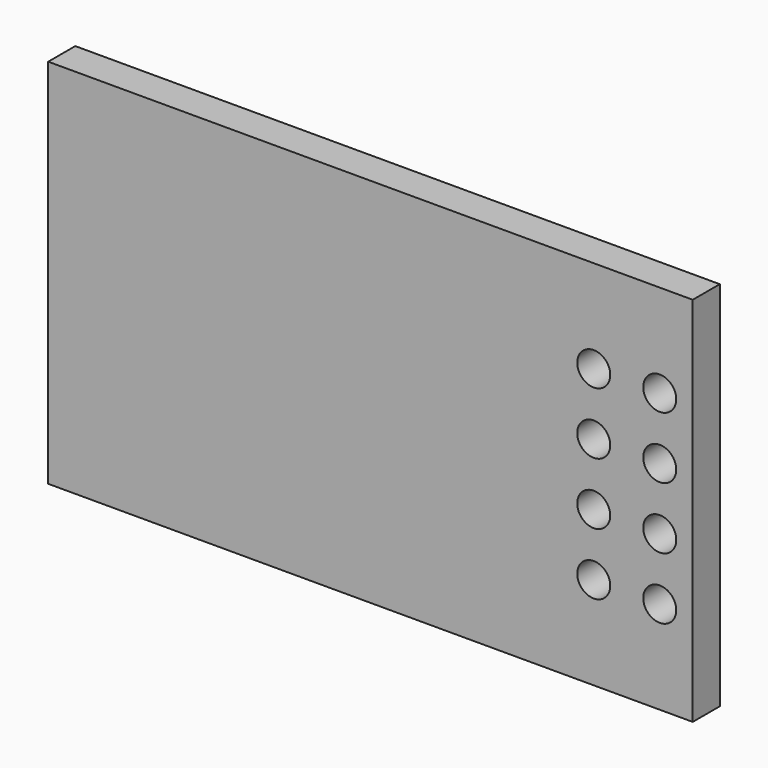
from build123d import *

# Parameters (mm, degrees)
F0_W     = 24.8
F0_H     = 14.3
F0_R     = 0.635
F1_DEPTH = 1.3


with BuildPart() as f1:
    # F0 (on Front) → F1 (new body)
    with BuildSketch(Plane.XZ):
        with Locations((12.4, 7.15)):
            Rectangle(F0_W, F0_H)
        with Locations((20.99, 3.576989)):
            Circle(F0_R, mode=Mode.SUBTRACT)
        with Locations((23.53, 3.576989)):
            Circle(F0_R, mode=Mode.SUBTRACT)
        with Locations((20.99, 5.958996)):
            Circle(F0_R, mode=Mode.SUBTRACT)
        with Locations((23.53, 5.958996)):
            Circle(F0_R, mode=Mode.SUBTRACT)
        with Locations((20.99, 8.341004)):
            Circle(F0_R, mode=Mode.SUBTRACT)
        with Locations((23.53, 8.341004)):
            Circle(F0_R, mode=Mode.SUBTRACT)
        with Locations((20.99, 10.723011)):
            Circle(F0_R, mode=Mode.SUBTRACT)
        with Locations((23.53, 10.723011)):
            Circle(F0_R, mode=Mode.SUBTRACT)
    extrude(amount=F1_DEPTH)


solid = f1.part
